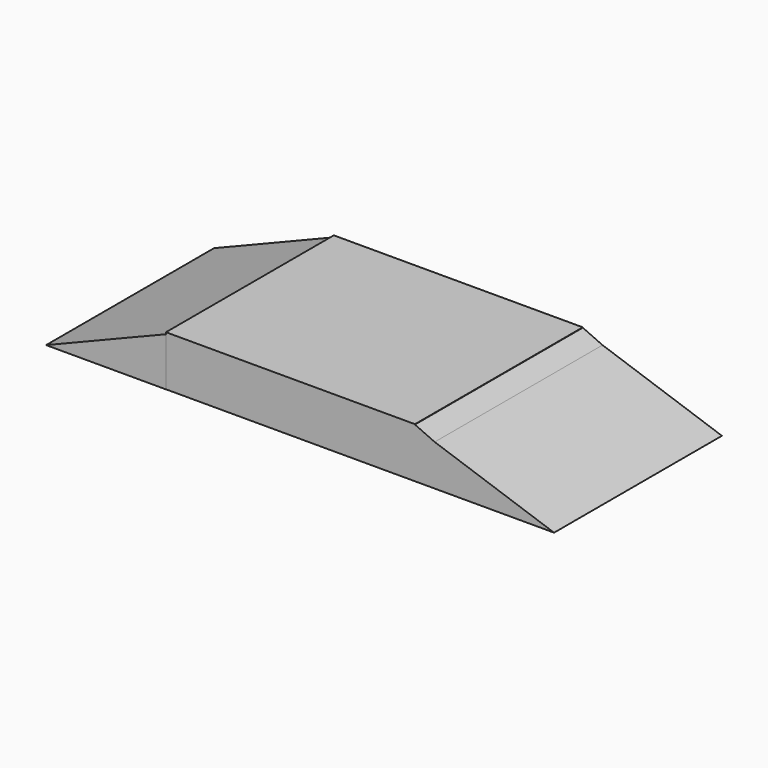
from build123d import *

# Parameters (mm, degrees)
F0_W      = 128.7249475718
F0_H      = 25.9889103472
F5_DEPTH  = 25.4
F8_DEPTH  = 25.4
F9_DEPTH  = 83.0614138395
F11_DEPTH = 108.5182130337


with BuildPart() as f5:
    # F0 (on Front) → F5 (new body)
    with BuildSketch(Plane.XZ):
        with Locations((64.3624737859, 12.9944551736)):
            Rectangle(F0_W, F0_H)
        with Locations((64.3624737859, 12.9944551736)):
            Rectangle(F0_W, F0_H)
    extrude(amount=F5_DEPTH)

    # F6 (on Front) + F7 (on face) → F8 (join)
    with BuildSketch(Plane.XZ):
        Polygon((185.9581768513, 0), (128.5665184259, 25.8846282959), (160.3146493435, 0), align=None)
        Polygon((160.3146493435, 0), (128.5665184259, 25.8846282959), (127.9721856117, 0), align=None)
        Polygon((185.9581768513, 0), (128.5665184259, 25.8846282959), (160.3146493435, 0), align=None)
        Polygon((160.3146493435, 0), (128.5665184259, 25.8846282959), (127.9721856117, 0), align=None)
    with BuildSketch(Plane.XZ):
        Polygon((200.6603479385, 0), (138.9337457069, 21.2088298961), (185.9581768513, 0), align=None)
    extrude(amount=F8_DEPTH)

    # F9 (add): a face of the model
    f9_faces = [f5.faces().sort_by_distance(p)[0] for p in [
        (82.97421567, -25.4, 12.0117681363),
    ]]
    extrude(f9_faces, amount=F9_DEPTH)

    # F10 (on Front) → F11 (join)
    with BuildSketch(Plane.XZ):
        Polygon((0, 0), (0, 25.0786654651), (-61.9297772646, 0), align=None)
    extrude(amount=F11_DEPTH)


solid = f5.part
